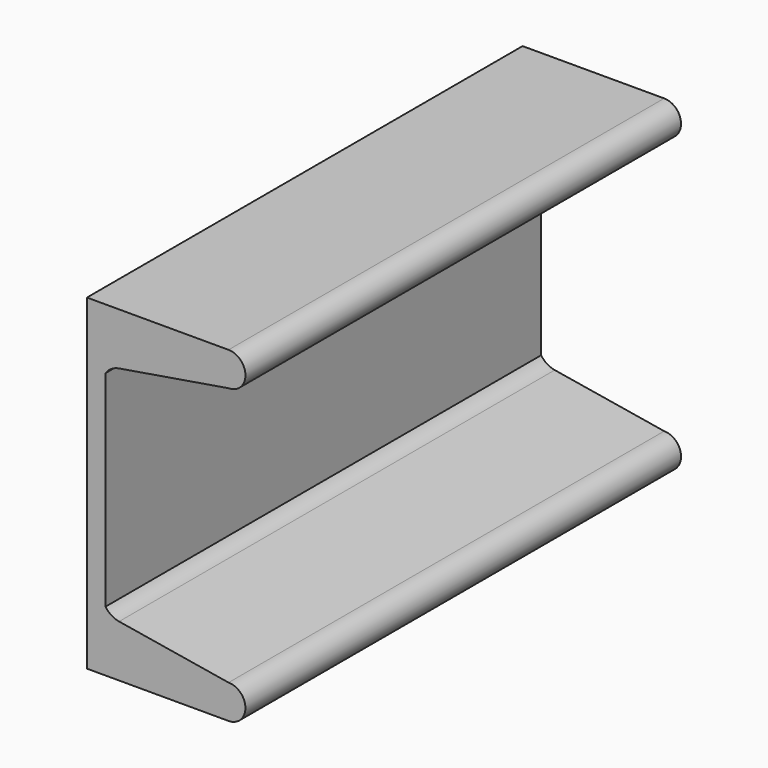
from build123d import *

# Parameters (mm, degrees)
F1_DEPTH = 63.5


with BuildPart() as f1:
    # F0 (on Front) → F1 (new body, symmetric)
    with BuildSketch(Plane.XZ):
        with BuildLine():
            Line((0, 38.1), (0, 0))
            Line((0, 0), (0, -38.1))
            Line((0, -38.1), (33.02, -38.1))
            ThreePointArc((33.02, -38.1), (36.961732, -34.158267), (33.019998, -30.216536))
            Line((33.019998, -30.216536), (7.498045, -25.979484))
            ThreePointArc((7.498045, -25.979484), (5.706049, -25.297969), (4.318, -23.975458))
            Line((4.318, -23.975458), (4.318, 0))
            Line((4.318, 0), (4.318, 23.975458))
            ThreePointArc((4.318, 23.975458), (5.706049, 25.297969), (7.498045, 25.979484))
            Line((7.498045, 25.979484), (33.019998, 30.216536))
            ThreePointArc((33.019998, 30.216536), (36.961732, 34.158267), (33.02, 38.1))
            Line((33.02, 38.1), (0, 38.1))
        make_face()
    extrude(amount=F1_DEPTH, both=True)


solid = f1.part
